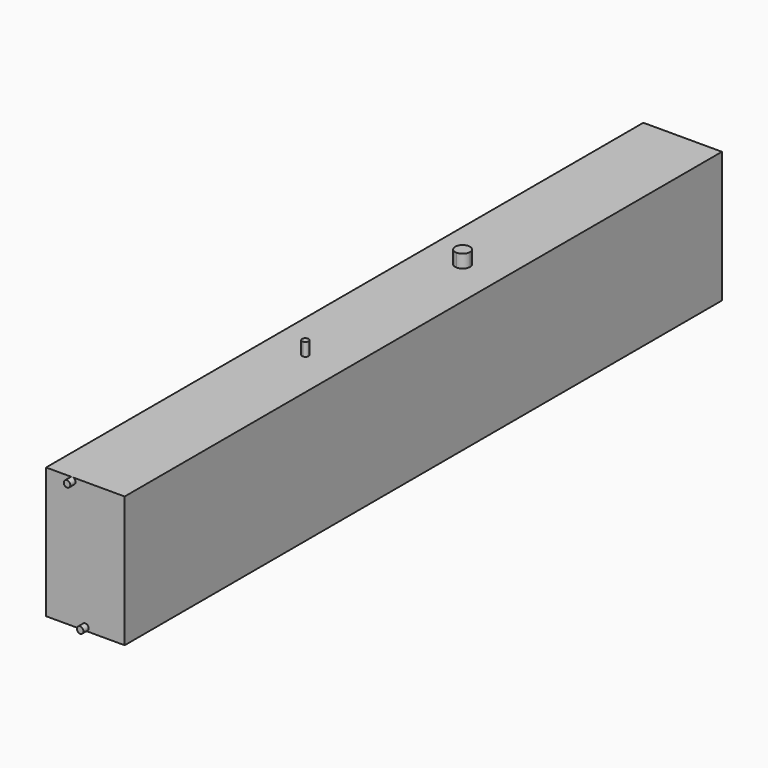
from build123d import *

# Parameters (mm, degrees)
F0_W     = 152.4
F0_H     = 1447.8
F1_DEPTH = 254
F3_DEPTH = 25.4
F4_R     = 6.35
F5_DEPTH = 12.7


with BuildPart() as f1:
    # F0 (on Top) → F1 (new body)
    with BuildSketch(Plane.XY):
        with Locations((37.643603, 672.619554)):
            Rectangle(F0_W, F0_H)
    extrude(amount=F1_DEPTH)

    # F2 (on face) → F3 (join)
    with BuildSketch(Plane.XY.offset(254)):
        with BuildLine():
            ThreePointArc((37.643603, 475.769554), (42.133731, 477.629426), (43.993603, 482.119554))
            ThreePointArc((43.993603, 482.119554), (42.133731, 486.609682), (37.643603, 488.469554))
            Line((37.643603, 488.469554), (37.643603, 475.769554))
        make_face()
        with BuildLine():
            ThreePointArc((51.931103, 863.119554), (27.540815, 873.222342), (37.643603, 848.832054))
            ThreePointArc((37.643603, 848.832054), (47.746391, 853.016766), (51.931103, 863.119554))
        make_face()
        with BuildLine():
            Line((37.643603, 475.769554), (37.643603, 488.469554))
            ThreePointArc((37.643603, 488.469554), (31.293603, 482.119554), (37.643603, 475.769554))
        make_face()
    extrude(amount=F3_DEPTH)

    # F4 (on face) → F5 (join)
    with BuildSketch(Plane.XZ.offset(51.280446)):
        with Locations((37.643603, 6.35)):
            Circle(F4_R)
        with BuildLine():
            ThreePointArc((5.893603, 247.65), (12.243603, 241.3), (18.593603, 247.65))
            ThreePointArc((18.593603, 247.65), (12.243603, 254), (5.893603, 247.65))
        make_face()
    extrude(amount=F5_DEPTH)


solid = f1.part
